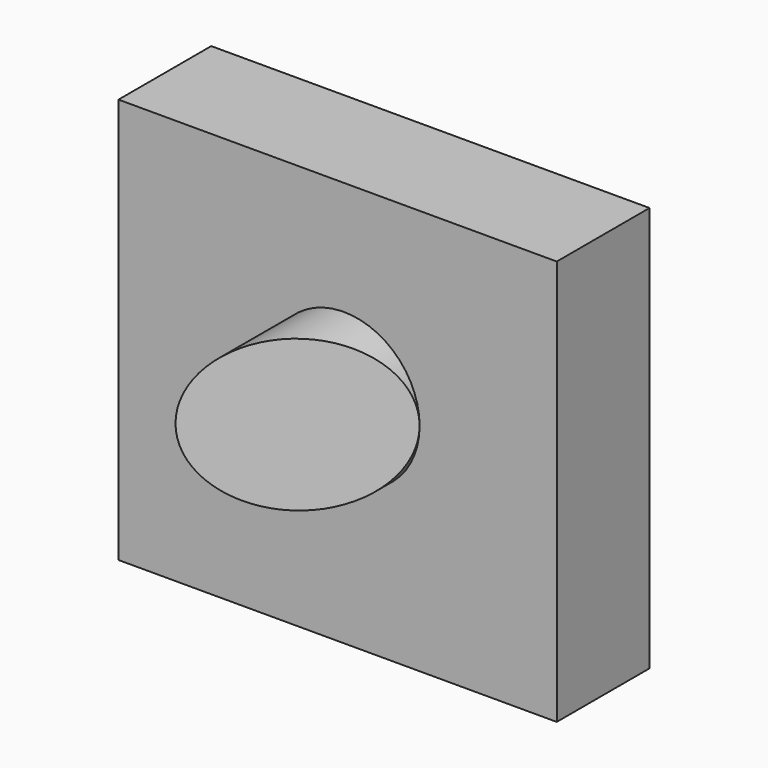
from build123d import *

# Parameters (mm, degrees)
F0_W     = 96.026704
F0_H     = 88.803456
F1_DEPTH = 25.4
F2_R     = 16.580818
F3_DEPTH = 25.4
F5_DEPTH = 88.804455


with BuildPart() as f1:
    # F0 (on Front) → F1 (new body)
    with BuildSketch(Plane.XZ):
        Rectangle(F0_W, F0_H)
    extrude(amount=F1_DEPTH)

    # F2 (on face) → F3 (join)
    with BuildSketch(Plane.XZ.offset(25.4)):
        with Locations((1.380454, 2.939289)):
            Circle(F2_R)
    extrude(amount=F3_DEPTH)

    # F4 (on face) → F5 (cut, through all)
    with BuildSketch(Plane(origin=(0, 0, -44.401728), x_dir=(1, 0, 0), z_dir=(0, 0, -1))):
        Polygon((17.961273, 50.8), (-15.200364, 50.8), (17.961273, 25.4), align=None)
    extrude(amount=-F5_DEPTH, mode=Mode.SUBTRACT)


solid = f1.part
